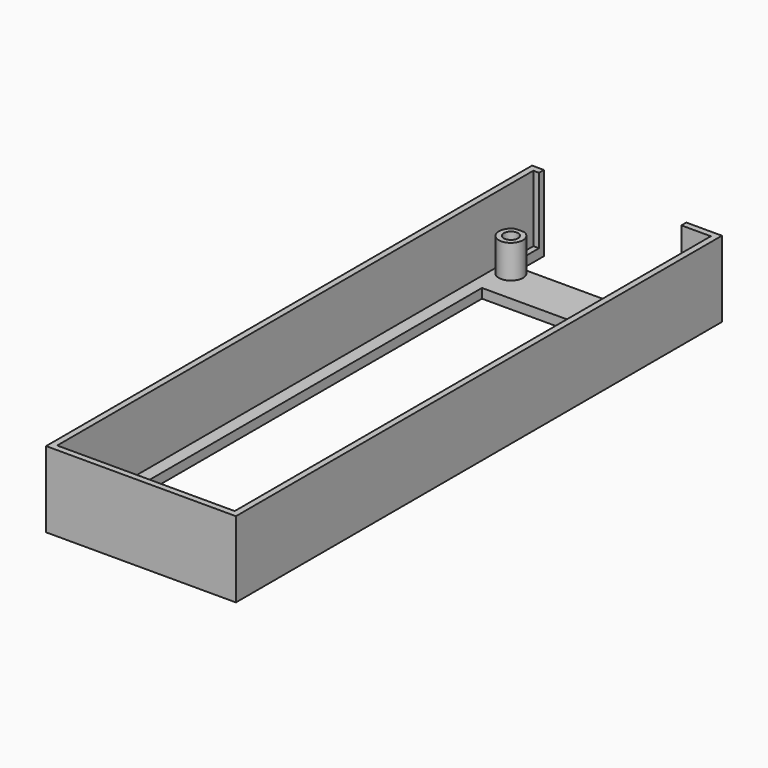
from build123d import *

# Parameters (mm, degrees)
BOX003_W          = 30
BOX003_H          = 8.8
BOX003_DEPTH      = 16
CYLINDER001_R     = 1.5
CYLINDER001_DEPTH = 9
CYLINDER_R        = 2.55
CYLINDER_DEPTH    = 9
BOX002_W          = 32
BOX002_H          = 103.5
BOX002_DEPTH      = 2
BOX001_W          = 37.4
BOX001_H          = 125.4
BOX001_DEPTH      = 14
BOX_W             = 40
BOX_H             = 128
BOX_DEPTH         = 16


with BuildPart() as connector_cutout:
    # Box003 → Box003 (new body)
    with BuildSketch(Plane(origin=(2.5, 119.2, 0), x_dir=(1, 0, 0), z_dir=(0, 0, 1))):
        with Locations((15, 4.4)):
            Rectangle(BOX003_W, BOX003_H)
    extrude(amount=BOX003_DEPTH)


with BuildPart() as cylinder001:
    # Cylinder001 → Cylinder001 (new body)
    with BuildSketch(Plane(origin=(4.5, 3.8, 0), x_dir=(1, 0, 0), z_dir=(0, 0, 1))):
        Circle(CYLINDER001_R)
    extrude(amount=CYLINDER001_DEPTH)


with BuildPart() as clone003:
    # Clone003 base: copy of Cylinder001
    add(cylinder001.part)


with BuildPart() as clone003_1:
    # Clone003 placement: moved
    add(clone003.part.moved(Location((31, 0, 0))))


with BuildPart() as clone004:
    # Clone004 base: copy of Cylinder001
    add(cylinder001.part)


with BuildPart() as clone004_1:
    # Clone004 placement: moved
    add(clone004.part.moved(Location((0, 113, 0))))


with BuildPart() as board_drills:
    # Clone005 base: copy of Cylinder001
    add(cylinder001.part)


with BuildPart() as board_drills_1:
    # Clone005 placement: moved
    add(board_drills.part.moved(Location((31, 113, 0))))

    # Fusion001: union Clone003, Clone004, Cylinder001
    add(clone003_1.part)
    add(clone004_1.part)
    add(cylinder001.part)


with BuildPart() as cylinder:
    # Cylinder → Cylinder (new body)
    with BuildSketch(Plane(origin=(4.5, 3.8, 0), x_dir=(1, 0, 0), z_dir=(0, 0, 1))):
        Circle(CYLINDER_R)
    extrude(amount=CYLINDER_DEPTH)


with BuildPart() as clone:
    # Clone base: copy of Cylinder
    add(cylinder.part)


with BuildPart() as clone_1:
    # Clone placement: moved
    add(clone.part.moved(Location((31, 0, 0))))


with BuildPart() as clone002:
    # Clone002 base: copy of Cylinder
    add(cylinder.part)


with BuildPart() as clone002_1:
    # Clone002 placement: moved
    add(clone002.part.moved(Location((31, 113, 0))))


with BuildPart() as clone001:
    # Clone001 base: copy of Cylinder
    add(cylinder.part)


with BuildPart() as clone001_1:
    # Clone001 placement: moved
    add(clone001.part.moved(Location((0, 113, 0))))


with BuildPart() as screen_cutout:
    # Box002 → Box002 (new body)
    with BuildSketch(Plane(origin=(4, 6.3, 0), x_dir=(1, 0, 0), z_dir=(0, 0, 1))):
        with Locations((16, 51.75)):
            Rectangle(BOX002_W, BOX002_H)
    extrude(amount=BOX002_DEPTH)


with BuildPart() as cube001:
    # Box001 → Box001 (new body)
    with BuildSketch(Plane(origin=(1.3, 1.3, 2), x_dir=(1, 0, 0), z_dir=(0, 0, 1))):
        with Locations((18.7, 62.7)):
            Rectangle(BOX001_W, BOX001_H)
    extrude(amount=BOX001_DEPTH)


with BuildPart() as case_with_connector_cutout:
    # Box → Box (new body)
    with BuildSketch(Plane.XY):
        with Locations((20, 64)):
            Rectangle(BOX_W, BOX_H)
    extrude(amount=BOX_DEPTH)

    # Cut: cut Cube001
    add(cube001.part, mode=Mode.SUBTRACT)

    # Cut001: cut Screen cutout
    add(screen_cutout.part, mode=Mode.SUBTRACT)

    # Fusion: union Clone, Clone002, Clone001, Cylinder
    add(clone_1.part)
    add(clone002_1.part)
    add(clone001_1.part)
    add(cylinder.part)

    # Cut002: cut Board drills
    add(board_drills_1.part, mode=Mode.SUBTRACT)

    # Cut003: cut Connector cutout
    add(connector_cutout.part, mode=Mode.SUBTRACT)


solid = case_with_connector_cutout.part
